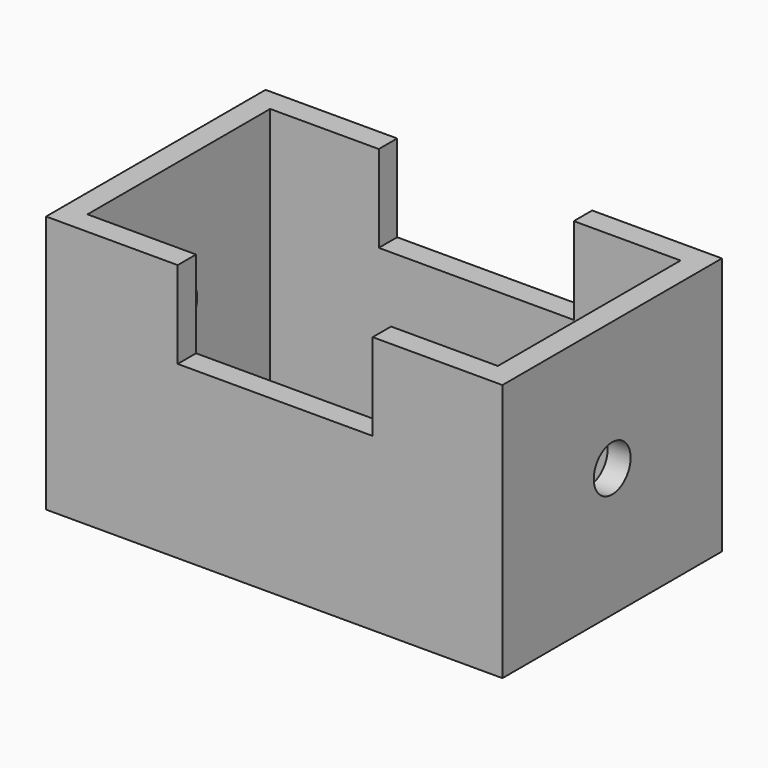
from build123d import *

# Parameters (mm, degrees)
F0_W     = 110.95576
F0_H     = 66.701726
F1_DEPTH = 62.738
F2_R     = 5.600926
F3_DEPTH = 110.95676
F4_W     = 99.779762
F4_H     = 55.525728
F5_DEPTH = 62.739
F6_W     = 47.409441
F6_H     = 21.149314
F7_DEPTH = 66.702725


with BuildPart() as f1:
    # F0 (on Top) → F1 (new body)
    with BuildSketch(Plane.XY):
        Rectangle(F0_W, F0_H)
    extrude(amount=F1_DEPTH)

    # F2 (on face) → F3 (cut, through all)
    with BuildSketch(Plane.YZ.offset(55.47788)):
        with Locations((0, 31.369)):
            Circle(F2_R)
    extrude(amount=-F3_DEPTH, mode=Mode.SUBTRACT)

    # F4 (on face) → F5 (cut, through all)
    with BuildSketch(Plane.XY.offset(62.738)):
        Rectangle(F4_W, F4_H)
    extrude(amount=-F5_DEPTH, mode=Mode.SUBTRACT)

    # F6 (on face) → F7 (cut, through all)
    with BuildSketch(Plane.XZ.offset(33.350863)):
        with Locations((0.224762, 52.163343)):
            Rectangle(F6_W, F6_H)
    extrude(amount=-F7_DEPTH, mode=Mode.SUBTRACT)


solid = f1.part
